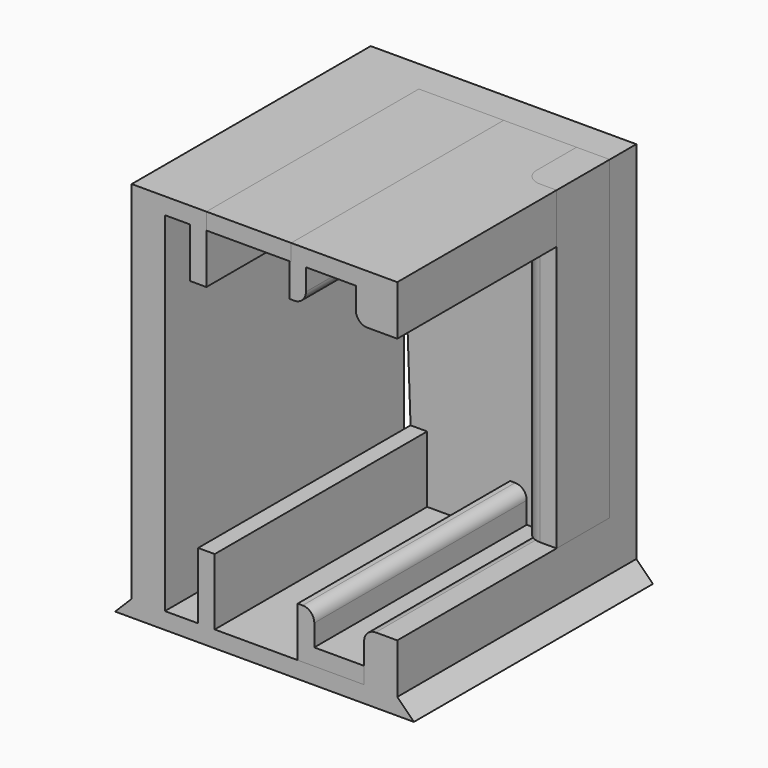
from build123d import *

# Parameters (mm, degrees)
F0_W      = 18
F0_H      = 18
F1_DEPTH  = 1
F3_DEPTH  = 22
F6_W      = 2
F6_H      = 19
F7_DEPTH  = 16
F8_W      = 1
F8_H      = 4
F9_DEPTH  = 16
F10_DEPTH = 25
F12_DEPTH = 16
F13_W     = 2
F13_H     = 19
F14_DEPTH = 2
F16_DEPTH = 4
F17_R     = 0.7
F17_2_R   = 0.7
F17_3_R   = 0.7
F18_R     = 1
F19_W     = 5.1086935602
F19_H     = 1
F20_DEPTH = 16
F22_DEPTH = 25


with BuildPart() as f1:
    # F0 (on Top) → F1 (new body)
    with BuildSketch(Plane.XY):
        with Locations((0, -1.0588235294)):
            Rectangle(F0_W, F0_H)
    extrude(amount=F1_DEPTH)

    # F2 (on face) → F3 (join)
    with BuildSketch(Plane.XY.offset(1)):
        Polygon((6, -10.0588235294), (8, -10.0588235294), (8, 7.9411764706), (-8, 7.9411764706), (-8, -10.0588235294), (-6, -10.0588235294), (-6, 5.9411764706), (6, 5.9411764706), align=None)
    extrude(amount=F3_DEPTH)

    # F5: sweep along a path in F5_path
    with BuildLine(Plane(origin=(-9, -10.0588235294, 0), x_dir=(0, -1, 0), z_dir=(0, 0, -1))) as f5_path:
        Line((0, 0), (-18, 0))
    # F4 (on face) → F5 (sweep, cut)
    with BuildSketch(Plane.XZ.offset(10.0588235294)):
        Polygon((-9, 1), (-9, 0), (-8, 1), align=None)
    sweep(path=f5_path.line, mode=Mode.SUBTRACT)

    # F6 (on face) → F7 (cut, through all)
    with BuildSketch(Plane.XZ.offset(10.0588235294)):
        with Locations((7, 13.5)):
            Rectangle(F6_W, F6_H)
    extrude(amount=-F7_DEPTH, mode=Mode.SUBTRACT)

    # F8 (on face) → F9 (join, through all)
    with BuildSketch(Plane.XZ.offset(-5.9411764706)):
        Polygon((-3.5, 23), (-6, 23), (-6, 22), (-4.5, 22), (-4.5, 19), (-3.5, 19), align=None)
        with Locations((-3.5, 3)):
            Rectangle(F8_W, F8_H)
    extrude(amount=F9_DEPTH)

    # F4 (on face) → F10 (cut)
    with BuildSketch(Plane.XZ.offset(10.0588235294)):
        Polygon((8, 1), (9, 0), (9, 1), align=None)
    extrude(amount=-F10_DEPTH, mode=Mode.SUBTRACT)

    # F17
    f17_edges = [f1.edges().sort_by_distance(p)[0] for p in [
        (6, -2.058824, 4),
    ]]
    fillet(f17_edges, radius=F17_R)

    # F21 (on face) → F22 (cut)
    with BuildSketch(Plane.XZ.offset(-5.9411764706)):
        Polygon((-4, 1), (-4, 5), (-4.5, 19), (-4.5, 22), (-6, 22), (-6, 1), align=None)
    extrude(amount=-F22_DEPTH, mode=Mode.SUBTRACT)


with BuildPart() as f12:
    # F11 (on face) → F12 (new body, through all)
    with BuildSketch(Plane.XZ.offset(-5.9411764706)):
        Polygon((2, 1), (6, 1), (6, 2), (3, 2), (3, 4), (2, 4), align=None)
    extrude(amount=F12_DEPTH)

    # F17#2
    f17_2_edges = [f12.edges().sort_by_distance(p)[0] for p in [
        (3, -2.058824, 4),
    ]]
    fillet(f17_2_edges, radius=F17_2_R)


with BuildPart() as f12b:
    # F11 (on face) → F12, piece 2 (new body, through all)
    with BuildSketch(Plane.XZ.offset(-5.9411764706)):
        Polygon((8, 23), (5.5, 23), (1.5, 23), (1.5, 20), (2.5, 20), (2.5, 22), (5.5, 22), (5.5, 20), (8, 20), align=None)
    extrude(amount=F12_DEPTH)

    # F17#3
    f17_3_edges = [f12b.edges().sort_by_distance(p)[0] for p in [
        (2.5, -2.058824, 20),
        (5.5, -2.058824, 20),
    ]]
    fillet(f17_3_edges, radius=F17_3_R)


with BuildPart() as f14:
    # F13 (on face) → F14 (new body)
    with BuildSketch(Plane.XZ.offset(-5.9411764706)):
        with Locations((7, 13.5)):
            Rectangle(F13_W, F13_H)
    extrude(amount=F14_DEPTH)


with BuildPart() as f16:
    # F13 (on face) → F16 (new body)
    with BuildSketch(Plane.XZ.offset(-5.9411764706)):
        with Locations((7, 13.5)):
            Rectangle(F13_W, F13_H)
    extrude(amount=F16_DEPTH)

    # F18
    f18_edges = [f16.edges().sort_by_distance(p)[0] for p in [
        (6, 1.941176, 13.5),
    ]]
    fillet(f18_edges, radius=F18_R)


with BuildPart() as f20:
    # F19 (on face) → F20 (new body, through all)
    with BuildSketch(Plane.XZ.offset(-5.9411764706)):
        with Locations((-0.9456532199, 22.5)):
            Rectangle(F19_W, F19_H)
    extrude(amount=F20_DEPTH)


solid = Compound([f1.part, f12.part, f12b.part, f16.part, f20.part])
